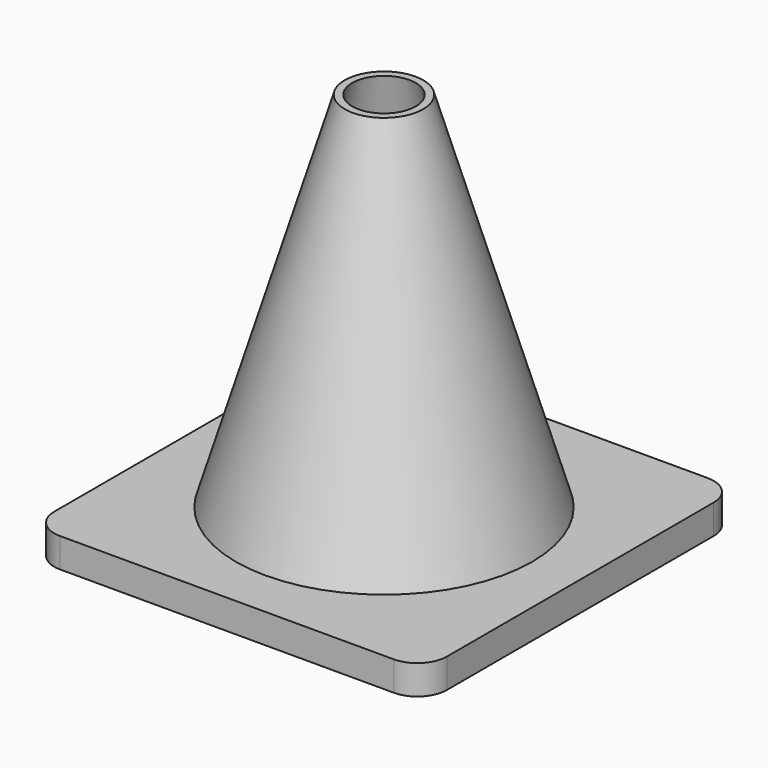
from build123d import *

# Parameters (mm, degrees)
BOX_W     = 40
BOX_H     = 40
BOX_DEPTH = 3
FILLET_R  = 3


with BuildPart() as con001:
    # Cone001 → Cone001 (revolve)
    with BuildSketch(Plane(origin=(0, 0, -9), x_dir=(1, 0, 0), z_dir=(0, -1, 0))):
        Polygon((0, 0), (15, 0), (3, 50), (0, 50), align=None)
    revolve(axis=Axis((0, 0, -9), (0, 0, 1)))


with BuildPart() as fillet_body:
    # Box → Box (new body)
    with BuildSketch(Plane(origin=(-20, -20, 0), x_dir=(1, 0, 0), z_dir=(0, 0, 1))):
        with Locations((20, 20)):
            Rectangle(BOX_W, BOX_H)
    extrude(amount=BOX_DEPTH)

    # Fillet
    fillet_edges = [fillet_body.edges().sort_by_distance(p)[0] for p in [
        (-20, -20, 1.5),
        (-20, 20, 1.5),
        (20, -20, 1.5),
        (20, 20, 1.5),
    ]]
    fillet(fillet_edges, radius=FILLET_R)


with BuildPart() as cut:
    # Cone → Cone (revolve)
    with BuildSketch(Plane.XZ):
        Polygon((0, 0), (16, 0), (4, 40), (0, 40), align=None)
    revolve(axis=Axis((0, 0, 0), (0, 0, 1)))

    # Fusion: union Fillet body
    add(fillet_body.part)

    # Cut: cut Con001
    add(con001.part, mode=Mode.SUBTRACT)


with BuildPart() as cut_1:
    # Cut placement: moved
    add(cut.part.moved(Location((20, 20, 0))))


solid = cut_1.part
